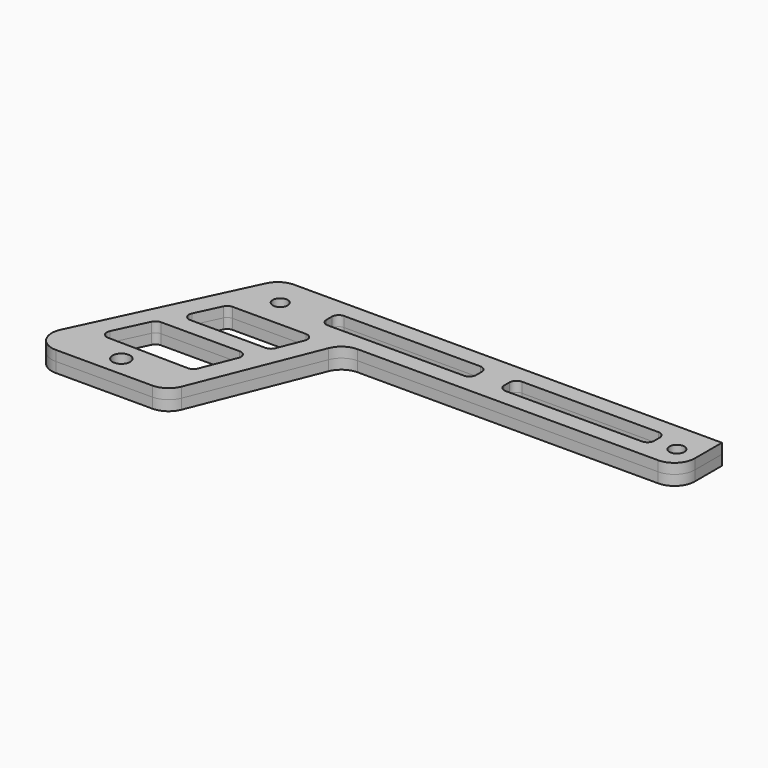
from build123d import *

# Parameters (mm, degrees)
F0_R     = 1.3
F0_R_2   = 1.1
F0_W     = 22.076766
F0_H     = 3
F0_W_2   = 22.123311
F1_DEPTH = 1.5
F2_R     = 3
F3_R     = 1


with BuildPart() as f1:
    # F0 (on Top) → F1 (new body)
    with BuildSketch(Plane.XY):
        Polygon((27.320505, 30.526263), (-37.679495, 30.526263), (-51.769257, 0.685375), (-30.769257, 0.685375), (-22.0348, 22.526263), (27.320505, 22.526263), align=None)
        with Locations((-39.768699, 3.685375)):
            Circle(F0_R, mode=Mode.SUBTRACT)
        Polygon((-31.628012, 6.617281), (-45.765303, 6.826442), (-42.544752, 13.647289), (-28.81662, 13.647289), align=None, mode=Mode.SUBTRACT)
        Polygon((-27.809364, 16.165975), (-41.142295, 16.165975), (-38.486495, 21.790729), (-25.559951, 21.790729), align=None, mode=Mode.SUBTRACT)
        with Locations((-34.213918, 26.026263)):
            Circle(F0_R_2, mode=Mode.SUBTRACT)
        with Locations((-16.354163, 26.526263)):
            Rectangle(F0_W, F0_H, mode=Mode.SUBTRACT)
        with Locations((9.877762, 26.526263)):
            Rectangle(F0_W_2, F0_H, mode=Mode.SUBTRACT)
        with Locations((24.286082, 26.026263)):
            Circle(F0_R_2, mode=Mode.SUBTRACT)
    extrude(amount=F1_DEPTH)

    # F2
    f2_edges = [f1.edges().sort_by_distance(p)[0] for p in [
        (-22.0348, 22.526263, 0.75),
        (-37.679495, 30.526263, 0.75),
        (-51.769257, 0.685375, 0.75),
        (-30.769257, 0.685375, 0.75),
        (27.320505, 22.526263, 0.75),
    ]]
    fillet(f2_edges, radius=F2_R)

    # F3
    f3_edges = [f1.edges().sort_by_distance(p)[0] for p in [
        (-45.765303, 6.826442, 0.75),
        (-42.544752, 13.647289, 0.75),
        (-28.81662, 13.647289, 0.75),
        (-31.628012, 6.617281, 0.75),
        (-27.809364, 16.165975, 0.75),
        (-25.559951, 21.790729, 0.75),
        (-38.486495, 21.790729, 0.75),
        (-41.142295, 16.165975, 0.75),
        (-27.392546, 25.026263, 0.75),
        (-27.392546, 28.026263, 0.75),
        (-5.31578, 28.026263, 0.75),
        (-5.31578, 25.026263, 0.75),
        (20.939417, 25.026263, 0.75),
        (20.939417, 28.026263, 0.75),
        (-1.183894, 25.026263, 0.75),
        (-1.183894, 28.026263, 0.75),
    ]]
    fillet(f3_edges, radius=F3_R)


with BuildPart() as f4_1:
    # F4: instance of F1
    add(f1.part.mirror(Plane.XY))


solid = Compound([f1.part, f4_1.part])
